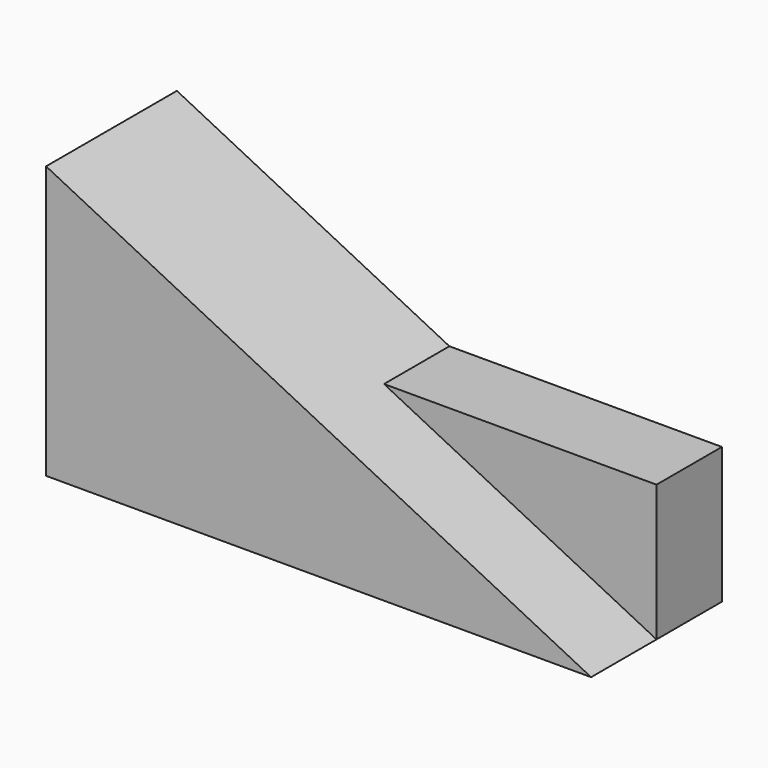
from build123d import *

# Parameters (mm, degrees)
F1_DEPTH = 38.1
F2_DEPTH = 19.05


with BuildPart() as f1:
    # F0 (on Front) → F1 (new body)
    with BuildSketch(Plane.XZ):
        Polygon((-63.5, 31.75), (-63.5, -31.75), (63.5, -31.75), (0, 0), align=None)
    extrude(amount=F1_DEPTH)

    # F0 (on Front) → F2 (join)
    with BuildSketch(Plane.XZ):
        Polygon((-63.5, 31.75), (-63.5, -31.75), (63.5, -31.75), (0, 0), align=None)
        Polygon((0, 0), (63.5, -31.75), (63.5, 0), align=None)
    extrude(amount=F2_DEPTH)


solid = f1.part
